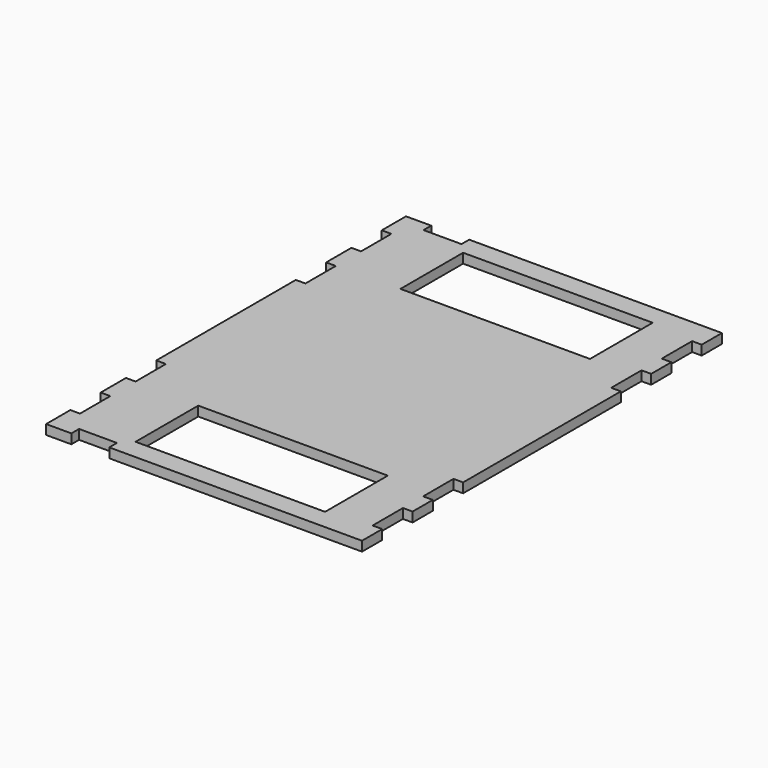
from build123d import *

# Parameters (mm, degrees)
F0_W     = 75
F0_H     = 31
F1_DEPTH = 3.81


with BuildPart() as f1:
    # F0 (on Top) → F1 (new body)
    with BuildSketch(Plane.XY):
        Polygon((62.5, 79), (62.5, 89), (-37.5, 89), (-37.5, 85.19), (-52.5, 85.19), (-52.5, 89), (-62.5, 89), (-62.5, 77), (-58.69, 77), (-58.69, 62), (-62.5, 62), (-62.5, 49.5), (-58.69, 49.5), (-58.69, 34.5), (-62.5, 34.5), (-62.5, 22.5), (-38.5, 22.5), (-38.5, 0), (-38.5, -22.5), (-62.5, -22.5), (-62.5, -34.5), (-58.69, -34.5), (-58.69, -49.5), (-62.5, -49.5), (-62.5, -62), (-58.69, -62), (-58.69, -77), (-62.5, -77), (-62.5, -89), (-52.5, -89), (-52.5, -85.19), (-37.5, -85.19), (-37.5, -89), (62.5, -89), (62.5, -79), (58.69, -79), (58.69, -64), (62.5, -64), (62.5, -54), (58.69, -54), (58.69, -39), (62.5, -39), (62.5, 39), (58.69, 39), (58.69, 54), (62.5, 54), (62.5, 64), (58.69, 64), (58.69, 79), align=None)
        with Locations((4, -65.5)):
            Rectangle(F0_W, F0_H, mode=Mode.SUBTRACT)
        with Locations((4, 65.5)):
            Rectangle(F0_W, F0_H, mode=Mode.SUBTRACT)
        Polygon((-38.5, 22.5), (-62.5, 22.5), (-62.5, -22.5), (-38.5, -22.5), (-38.5, 0), align=None)
    extrude(amount=F1_DEPTH)


solid = f1.part
